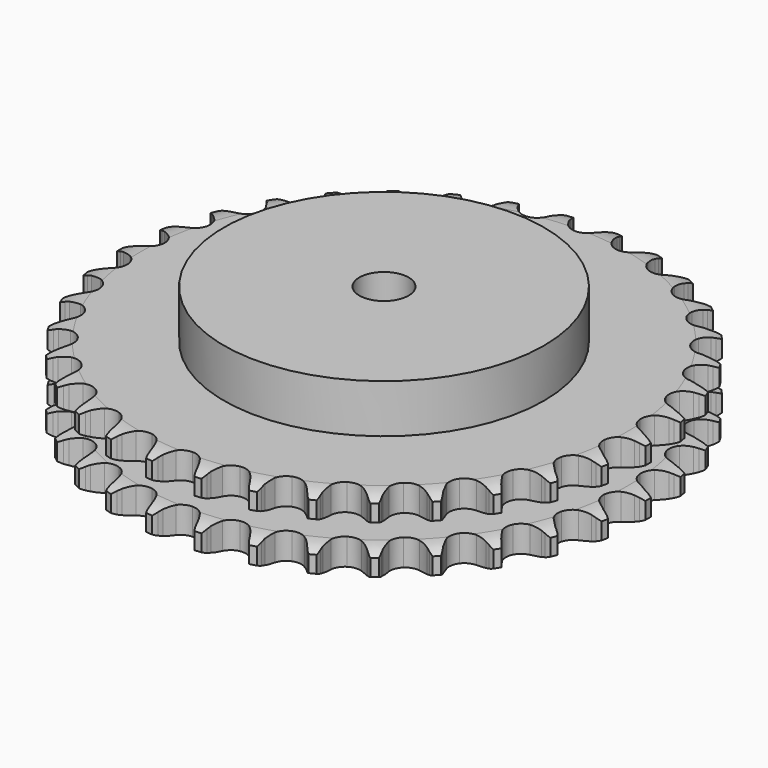
from build123d import *

# Parameters (mm, degrees)
PAD_DEPTH         = 30.3
SKETCH001_R       = 65
PAD001_DEPTH      = 50
SKETCH002_R       = 10
POCKET_DEPTH      = 0.001
POCKET_DEPTH_BACK = 50.001


with BuildPart() as part:
    # Sprocket → Pad (new body)
    with BuildSketch(Plane.XY):
        with BuildLine():
            ThreePointArc((-10.082744, 108.810139), (-8.639647, 107.094844), (-7.623169, 105.096959))
            Line((-7.623169, 105.096959), (-7.034333, 103.51462))
            ThreePointArc((-7.034333, 103.51462), (-6.1025, 101.4699), (-4.889335, 99.578493))
            ThreePointArc((-4.889335, 99.578493), (-2.734478, 97.77506), (0, 97.128213))
            ThreePointArc((0, 97.128213), (2.734478, 97.77506), (4.889335, 99.578493))
            ThreePointArc((4.889335, 99.578493), (6.1025, 101.4699), (7.034333, 103.51462))
            Line((7.034333, 103.51462), (7.623169, 105.096959))
            ThreePointArc((7.623169, 105.096959), (8.639647, 107.094844), (10.082744, 108.810139))
            ThreePointArc((10.082744, 108.810139), (11.186086, 106.858881), (11.818145, 104.708237))
            Line((11.818145, 104.708237), (12.106202, 103.044642))
            ThreePointArc((12.106202, 103.044642), (12.646452, 100.863514), (13.491415, 98.781393))
            ThreePointArc((13.491415, 98.781393), (15.278202, 96.612713), (17.847262, 95.47442))
            ThreePointArc((17.847262, 95.47442), (20.654038, 95.607795), (23.103585, 96.984567))
            Line((23.103585, 96.984567), (25.935321, 100.459532))
            ThreePointArc((25.935321, 100.459532), (26.350709, 101.194784), (26.804886, 101.90673))
            ThreePointArc((26.804886, 101.90673), (28.171166, 103.683819), (29.904877, 105.10474))
            ThreePointArc((29.904877, 105.10474), (30.630889, 102.983968), (30.857007, 100.753802))
            Line((30.857007, 100.753802), (30.834474, 99.065602))
            ThreePointArc((30.834474, 99.065602), (30.964744, 96.822341), (31.412732, 94.620411))
            ThreePointArc((31.412732, 94.620411), (32.770601, 92.160336), (35.086757, 90.569361))
            ThreePointArc((35.086757, 90.569361), (37.87025, 90.184721), (40.53107, 91.087948))
            Line((40.53107, 91.087948), (43.953114, 93.983414))
            ThreePointArc((43.953114, 93.983414), (44.496531, 94.62982), (45.073794, 95.246189))
            ThreePointArc((45.073794, 95.246189), (46.74335, 96.741967), (48.708635, 97.820126))
            ThreePointArc((48.708635, 97.820126), (49.032595, 95.602059), (48.84507, 93.368317))
            Line((48.84507, 93.368317), (48.512715, 91.713003))
            ThreePointArc((48.512715, 91.713003), (48.228569, 89.484), (48.264325, 87.237244))
            ThreePointArc((48.264325, 87.237244), (49.147037, 84.569549), (51.131415, 82.580071))
            ThreePointArc((51.131415, 82.580071), (53.796836, 81.690515), (56.578318, 82.089438))
            Line((56.578318, 82.089438), (60.474135, 84.306805))
            ThreePointArc((60.474135, 84.306805), (61.127077, 84.842352), (61.807768, 85.342154))
            ThreePointArc((61.807768, 85.342154), (63.723746, 86.505683), (65.853679, 87.204364))
            ThreePointArc((65.853679, 87.204364), (65.764554, 84.964537), (65.169773, 82.803286))
            Line((65.169773, 82.803286), (64.538914, 81.237226))
            ThreePointArc((64.538914, 81.237226), (63.850028, 79.098389), (63.472335, 76.883318))
            ThreePointArc((63.472335, 76.883318), (63.849829, 74.098847), (65.434854, 71.778615))
            ThreePointArc((65.434854, 71.778615), (67.891435, 70.414436), (70.698859, 70.295471))
            Line((70.698859, 70.295471), (74.935783, 71.759228))
            ThreePointArc((74.935783, 71.759228), (75.676013, 72.165679), (76.436953, 72.531894))
            ThreePointArc((76.436953, 72.531894), (78.534105, 73.323552), (80.756155, 73.618962))
            ThreePointArc((80.756155, 73.618962), (80.25698, 71.433649), (79.275198, 69.418488))
            Line((79.275198, 69.418488), (78.367317, 67.995014))
            ThreePointArc((78.367317, 67.995014), (77.29715, 66.019177), (76.51887, 63.911222))
            ThreePointArc((76.51887, 63.911222), (76.378292, 61.104798), (77.509987, 58.532825))
            ThreePointArc((77.509987, 58.532825), (79.674073, 56.740478), (82.411835, 56.107675))
            Line((82.411835, 56.107675), (86.845582, 56.767977))
            ThreePointArc((86.845582, 56.767977), (87.647894, 57.03149), (88.463169, 57.251647))
            ThreePointArc((88.463169, 57.251647), (90.67008, 57.644475), (92.908576, 57.526555))
            ThreePointArc((92.908576, 57.526555), (92.016351, 55.470174), (90.681001, 53.669727))
            Line((90.681001, 53.669727), (89.527016, 52.437313))
            ThreePointArc((89.527016, 52.437313), (88.112011, 50.691761), (86.959647, 48.762707))
            ThreePointArc((86.959647, 48.762707), (86.305783, 46.029899), (86.94561, 43.29377))
            ThreePointArc((86.94561, 43.29377), (88.743506, 41.134291), (91.318376, 40.009201))
            Line((91.318376, 40.009201), (95.79796, 39.84356))
            ThreePointArc((95.79796, 39.84356), (96.635031, 39.955162), (97.476878, 40.021764))
            ThreePointArc((97.476878, 40.021764), (99.718394, 40.002385), (101.897108, 39.47515))
            ThreePointArc((101.897108, 39.47515), (100.642215, 37.617729), (98.998771, 36.093308))
            Line((98.998771, 36.093308), (97.637979, 35.093922))
            ThreePointArc((97.637979, 35.093922), (95.926323, 33.638097), (94.439118, 31.953636))
            ThreePointArc((94.439118, 31.953636), (93.294235, 29.387506), (93.420405, 26.580397))
            ThreePointArc((93.420405, 26.580397), (94.790886, 24.127325), (97.115178, 22.54826))
            Line((97.115178, 22.54826), (101.488052, 21.562319))
            ThreePointArc((101.488052, 21.562319), (102.331378, 21.518209), (103.171129, 21.428988))
            ThreePointArc((103.171129, 21.428988), (105.370918, 20.998061), (107.415656, 20.079466))
            ThreePointArc((107.415656, 20.079466), (105.84083, 18.484257), (103.945256, 17.287774))
            Line((103.945256, 17.287774), (102.423998, 16.55545))
            ThreePointArc((102.423998, 16.55545), (100.47398, 15.438929), (98.702578, 14.056422))
            ThreePointArc((98.702578, 14.056422), (97.105663, 11.744357), (96.713881, 8.961861))
            ThreePointArc((96.713881, 8.961861), (97.610275, 6.298732), (99.60484, 4.319466))
            Line((99.60484, 4.319466), (103.722091, 2.546799))
            ThreePointArc((103.722091, 2.546799), (104.542952, 2.348479), (105.352011, 2.106474))
            ThreePointArc((105.352011, 2.106474), (107.435162, 1.278674), (109.276292, 0))
            ThreePointArc((109.276292, 0), (107.435162, -1.278674), (105.352011, -2.106474))
            Line((105.352011, -2.106474), (103.722091, -2.546799))
            ThreePointArc((103.722091, -2.546799), (101.600115, -3.285993), (99.60484, -4.319466))
            ThreePointArc((99.60484, -4.319466), (97.610275, -6.298732), (96.713881, -8.961861))
            ThreePointArc((96.713881, -8.961861), (97.105663, -11.744357), (98.702578, -14.056422))
            Line((98.702578, -14.056422), (102.423998, -16.55545))
            ThreePointArc((102.423998, -16.55545), (103.194442, -16.901225), (103.945256, -17.287774))
            ThreePointArc((103.945256, -17.287774), (105.84083, -18.484257), (107.415656, -20.079466))
            ThreePointArc((107.415656, -20.079466), (105.370918, -20.998061), (103.171129, -21.428988))
            Line((103.171129, -21.428988), (101.488052, -21.562319))
            ThreePointArc((101.488052, -21.562319), (99.26638, -21.899015), (97.115178, -22.54826))
            ThreePointArc((97.115178, -22.54826), (94.790886, -24.127325), (93.420405, -26.580397))
            ThreePointArc((93.420405, -26.580397), (93.294235, -29.387506), (94.439118, -31.953636))
            Line((94.439118, -31.953636), (97.637979, -35.093922))
            ThreePointArc((97.637979, -35.093922), (98.331768, -35.575378), (98.998771, -36.093308))
            ThreePointArc((98.998771, -36.093308), (100.642215, -37.617729), (101.897108, -39.47515))
            ThreePointArc((101.897108, -39.47515), (99.718394, -40.002385), (97.476878, -40.021764))
            Line((97.476878, -40.021764), (95.79796, -39.84356))
            ThreePointArc((95.79796, -39.84356), (93.552248, -39.766292), (91.318376, -40.009201))
            ThreePointArc((91.318376, -40.009201), (88.743506, -41.134291), (86.94561, -43.29377))
            ThreePointArc((86.94561, -43.29377), (86.305783, -46.029899), (86.959647, -48.762707))
            Line((86.959647, -48.762707), (89.527016, -52.437313))
            ThreePointArc((89.527016, -52.437313), (90.120524, -53.038055), (90.681001, -53.669727))
            ThreePointArc((90.681001, -53.669727), (92.016351, -55.470174), (92.908576, -57.526555))
            ThreePointArc((92.908576, -57.526555), (90.67008, -57.644475), (88.463169, -57.251647))
            Line((88.463169, -57.251647), (86.845582, -56.767977))
            ThreePointArc((86.845582, -56.767977), (84.652306, -56.279376), (82.411835, -56.107675))
            ThreePointArc((82.411835, -56.107675), (79.674073, -56.740478), (77.509987, -58.532825))
            ThreePointArc((77.509987, -58.532825), (76.378292, -61.104798), (76.51887, -63.911222))
            Line((76.51887, -63.911222), (78.367317, -67.995014))
            ThreePointArc((78.367317, -67.995014), (78.840334, -68.694584), (79.275198, -69.418488))
            ThreePointArc((79.275198, -69.418488), (80.25698, -71.433649), (80.756155, -73.618962))
            ThreePointArc((80.756155, -73.618962), (78.534105, -73.323552), (76.436953, -72.531894))
            Line((76.436953, -72.531894), (74.935783, -71.759228))
            ThreePointArc((74.935783, -71.759228), (72.869632, -70.875933), (70.698859, -70.295471))
            ThreePointArc((70.698859, -70.295471), (67.891435, -70.414436), (65.434854, -71.778615))
            ThreePointArc((65.434854, -71.778615), (63.849829, -74.098847), (63.472335, -76.883318))
            Line((63.472335, -76.883318), (64.538914, -81.237226))
            ThreePointArc((64.538914, -81.237226), (64.875331, -82.011802), (65.169773, -82.803286))
            ThreePointArc((65.169773, -82.803286), (65.764554, -84.964537), (65.853679, -87.204364))
            ThreePointArc((65.853679, -87.204364), (63.723746, -86.505683), (61.807768, -85.342154))
            Line((61.807768, -85.342154), (60.474135, -84.306805))
            ThreePointArc((60.474135, -84.306805), (58.605469, -83.058895), (56.578318, -82.089438))
            ThreePointArc((56.578318, -82.089438), (53.796836, -81.690515), (51.131415, -82.580071))
            ThreePointArc((51.131415, -82.580071), (49.147037, -84.569549), (48.264325, -87.237244))
            Line((48.264325, -87.237244), (48.512715, -91.713003))
            ThreePointArc((48.512715, -91.713003), (48.701076, -92.536206), (48.84507, -93.368317))
            ThreePointArc((48.84507, -93.368317), (49.032595, -95.602059), (48.708635, -97.820126))
            ThreePointArc((48.708635, -97.820126), (46.74335, -96.741967), (45.073794, -95.246189))
            Line((45.073794, -95.246189), (43.953114, -93.983414))
            ThreePointArc((43.953114, -93.983414), (42.345568, -92.413387), (40.53107, -91.087948))
            ThreePointArc((40.53107, -91.087948), (37.87025, -90.184721), (35.086757, -90.569361))
            ThreePointArc((35.086757, -90.569361), (32.770601, -92.160336), (31.412732, -94.620411))
            Line((31.412732, -94.620411), (30.834474, -99.065602))
            ThreePointArc((30.834474, -99.065602), (30.868365, -99.9094), (30.857007, -100.753802))
            ThreePointArc((30.857007, -100.753802), (30.630889, -102.983968), (29.904877, -105.10474))
            ThreePointArc((29.904877, -105.10474), (28.171166, -103.683819), (26.804886, -101.90673))
            Line((26.804886, -101.90673), (25.935321, -100.459532))
            ThreePointArc((25.935321, -100.459532), (24.643639, -98.620851), (23.103585, -96.984567))
            ThreePointArc((23.103585, -96.984567), (20.654038, -95.607795), (17.847262, -95.47442))
            ThreePointArc((17.847262, -95.47442), (15.278202, -96.612713), (13.491415, -98.781393))
            Line((13.491415, -98.781393), (12.106202, -103.044642))
            ThreePointArc((12.106202, -103.044642), (11.984468, -103.8803), (11.818145, -104.708237))
            ThreePointArc((11.818145, -104.708237), (11.186086, -106.858881), (10.082744, -108.810139))
            ThreePointArc((10.082744, -108.810139), (8.639647, -107.094844), (7.623169, -105.096959))
            Line((7.623169, -105.096959), (7.034333, -103.51462))
            ThreePointArc((7.034333, -103.51462), (6.1025, -101.4699), (4.889335, -99.578493))
            ThreePointArc((4.889335, -99.578493), (2.734478, -97.77506), (0, -97.128213))
            ThreePointArc((0, -97.128213), (-2.734478, -97.77506), (-4.889335, -99.578493))
            Line((-4.889335, -99.578493), (-7.034333, -103.51462))
            ThreePointArc((-7.034333, -103.51462), (-7.307545, -104.313681), (-7.623169, -105.096959))
            ThreePointArc((-7.623169, -105.096959), (-8.639647, -107.094844), (-10.082744, -108.810139))
            ThreePointArc((-10.082744, -108.810139), (-11.186086, -106.858881), (-11.818145, -104.708237))
            Line((-11.818145, -104.708237), (-12.106202, -103.044642))
            ThreePointArc((-12.106202, -103.044642), (-12.646452, -100.863514), (-13.491415, -98.781393))
            ThreePointArc((-13.491415, -98.781393), (-15.278202, -96.612713), (-17.847262, -95.47442))
            ThreePointArc((-17.847262, -95.47442), (-20.654038, -95.607795), (-23.103585, -96.984567))
            Line((-23.103585, -96.984567), (-25.935321, -100.459532))
            ThreePointArc((-25.935321, -100.459532), (-26.350709, -101.194784), (-26.804886, -101.90673))
            ThreePointArc((-26.804886, -101.90673), (-28.171166, -103.683819), (-29.904877, -105.10474))
            ThreePointArc((-29.904877, -105.10474), (-30.630889, -102.983968), (-30.857007, -100.753802))
            Line((-30.857007, -100.753802), (-30.834474, -99.065602))
            ThreePointArc((-30.834474, -99.065602), (-30.964744, -96.822341), (-31.412732, -94.620411))
            ThreePointArc((-31.412732, -94.620411), (-32.770601, -92.160336), (-35.086757, -90.569361))
            ThreePointArc((-35.086757, -90.569361), (-37.87025, -90.184721), (-40.53107, -91.087948))
            Line((-40.53107, -91.087948), (-43.953114, -93.983414))
            ThreePointArc((-43.953114, -93.983414), (-44.496531, -94.62982), (-45.073794, -95.246189))
            ThreePointArc((-45.073794, -95.246189), (-46.74335, -96.741967), (-48.708635, -97.820126))
            ThreePointArc((-48.708635, -97.820126), (-49.032595, -95.602059), (-48.84507, -93.368317))
            Line((-48.84507, -93.368317), (-48.512715, -91.713003))
            ThreePointArc((-48.512715, -91.713003), (-48.228569, -89.484), (-48.264325, -87.237244))
            ThreePointArc((-48.264325, -87.237244), (-49.147037, -84.569549), (-51.131415, -82.580071))
            ThreePointArc((-51.131415, -82.580071), (-53.796836, -81.690515), (-56.578318, -82.089438))
            Line((-56.578318, -82.089438), (-60.474135, -84.306805))
            ThreePointArc((-60.474135, -84.306805), (-61.127077, -84.842352), (-61.807768, -85.342154))
            ThreePointArc((-61.807768, -85.342154), (-63.723746, -86.505683), (-65.853679, -87.204364))
            ThreePointArc((-65.853679, -87.204364), (-65.764554, -84.964537), (-65.169773, -82.803286))
            Line((-65.169773, -82.803286), (-64.538914, -81.237226))
            ThreePointArc((-64.538914, -81.237226), (-63.850028, -79.098389), (-63.472335, -76.883318))
            ThreePointArc((-63.472335, -76.883318), (-63.849829, -74.098847), (-65.434854, -71.778615))
            ThreePointArc((-65.434854, -71.778615), (-67.891435, -70.414436), (-70.698859, -70.295471))
            Line((-70.698859, -70.295471), (-74.935783, -71.759228))
            ThreePointArc((-74.935783, -71.759228), (-75.676013, -72.165679), (-76.436953, -72.531894))
            ThreePointArc((-76.436953, -72.531894), (-78.534105, -73.323552), (-80.756155, -73.618962))
            ThreePointArc((-80.756155, -73.618962), (-80.25698, -71.433649), (-79.275198, -69.418488))
            Line((-79.275198, -69.418488), (-78.367317, -67.995014))
            ThreePointArc((-78.367317, -67.995014), (-77.29715, -66.019177), (-76.51887, -63.911222))
            ThreePointArc((-76.51887, -63.911222), (-76.378292, -61.104798), (-77.509987, -58.532825))
            ThreePointArc((-77.509987, -58.532825), (-79.674073, -56.740478), (-82.411835, -56.107675))
            Line((-82.411835, -56.107675), (-86.845582, -56.767977))
            ThreePointArc((-86.845582, -56.767977), (-87.647894, -57.03149), (-88.463169, -57.251647))
            ThreePointArc((-88.463169, -57.251647), (-90.67008, -57.644475), (-92.908576, -57.526555))
            ThreePointArc((-92.908576, -57.526555), (-92.016351, -55.470174), (-90.681001, -53.669727))
            Line((-90.681001, -53.669727), (-89.527016, -52.437313))
            ThreePointArc((-89.527016, -52.437313), (-88.112011, -50.691761), (-86.959647, -48.762707))
            ThreePointArc((-86.959647, -48.762707), (-86.305783, -46.029899), (-86.94561, -43.29377))
            ThreePointArc((-86.94561, -43.29377), (-88.743506, -41.134291), (-91.318376, -40.009201))
            Line((-91.318376, -40.009201), (-95.79796, -39.84356))
            ThreePointArc((-95.79796, -39.84356), (-96.635031, -39.955162), (-97.476878, -40.021764))
            ThreePointArc((-97.476878, -40.021764), (-99.718394, -40.002385), (-101.897108, -39.47515))
            ThreePointArc((-101.897108, -39.47515), (-100.642215, -37.617729), (-98.998771, -36.093308))
            Line((-98.998771, -36.093308), (-97.637979, -35.093922))
            ThreePointArc((-97.637979, -35.093922), (-95.926323, -33.638097), (-94.439118, -31.953636))
            ThreePointArc((-94.439118, -31.953636), (-93.294235, -29.387506), (-93.420405, -26.580397))
            ThreePointArc((-93.420405, -26.580397), (-94.790886, -24.127325), (-97.115178, -22.54826))
            Line((-97.115178, -22.54826), (-101.488052, -21.562319))
            ThreePointArc((-101.488052, -21.562319), (-102.331378, -21.518209), (-103.171129, -21.428988))
            ThreePointArc((-103.171129, -21.428988), (-105.370918, -20.998061), (-107.415656, -20.079466))
            ThreePointArc((-107.415656, -20.079466), (-105.84083, -18.484257), (-103.945256, -17.287774))
            Line((-103.945256, -17.287774), (-102.423998, -16.55545))
            ThreePointArc((-102.423998, -16.55545), (-100.47398, -15.438929), (-98.702578, -14.056422))
            ThreePointArc((-98.702578, -14.056422), (-97.105663, -11.744357), (-96.713881, -8.961861))
            ThreePointArc((-96.713881, -8.961861), (-97.610275, -6.298732), (-99.60484, -4.319466))
            Line((-99.60484, -4.319466), (-103.722091, -2.546799))
            ThreePointArc((-103.722091, -2.546799), (-104.542952, -2.348479), (-105.352011, -2.106474))
            ThreePointArc((-105.352011, -2.106474), (-107.435162, -1.278674), (-109.276292, 0))
            ThreePointArc((-109.276292, 0), (-107.435162, 1.278674), (-105.352011, 2.106474))
            Line((-105.352011, 2.106474), (-103.722091, 2.546799))
            ThreePointArc((-103.722091, 2.546799), (-101.600115, 3.285993), (-99.60484, 4.319466))
            ThreePointArc((-99.60484, 4.319466), (-97.610275, 6.298732), (-96.713881, 8.961861))
            ThreePointArc((-96.713881, 8.961861), (-97.105663, 11.744357), (-98.702578, 14.056422))
            Line((-98.702578, 14.056422), (-102.423998, 16.55545))
            ThreePointArc((-102.423998, 16.55545), (-103.194442, 16.901225), (-103.945256, 17.287774))
            ThreePointArc((-103.945256, 17.287774), (-105.84083, 18.484257), (-107.415656, 20.079466))
            ThreePointArc((-107.415656, 20.079466), (-105.370918, 20.998061), (-103.171129, 21.428988))
            Line((-103.171129, 21.428988), (-101.488052, 21.562319))
            ThreePointArc((-101.488052, 21.562319), (-99.26638, 21.899015), (-97.115178, 22.54826))
            ThreePointArc((-97.115178, 22.54826), (-94.790886, 24.127325), (-93.420405, 26.580397))
            ThreePointArc((-93.420405, 26.580397), (-93.294235, 29.387506), (-94.439118, 31.953636))
            Line((-94.439118, 31.953636), (-97.637979, 35.093922))
            ThreePointArc((-97.637979, 35.093922), (-98.331768, 35.575378), (-98.998771, 36.093308))
            ThreePointArc((-98.998771, 36.093308), (-100.642215, 37.617729), (-101.897108, 39.47515))
            ThreePointArc((-101.897108, 39.47515), (-99.718394, 40.002385), (-97.476878, 40.021764))
            Line((-97.476878, 40.021764), (-95.79796, 39.84356))
            ThreePointArc((-95.79796, 39.84356), (-93.552248, 39.766292), (-91.318376, 40.009201))
            ThreePointArc((-91.318376, 40.009201), (-88.743506, 41.134291), (-86.94561, 43.29377))
            ThreePointArc((-86.94561, 43.29377), (-86.305783, 46.029899), (-86.959647, 48.762707))
            Line((-86.959647, 48.762707), (-89.527016, 52.437313))
            ThreePointArc((-89.527016, 52.437313), (-90.120524, 53.038055), (-90.681001, 53.669727))
            ThreePointArc((-90.681001, 53.669727), (-92.016351, 55.470174), (-92.908576, 57.526555))
            ThreePointArc((-92.908576, 57.526555), (-90.67008, 57.644475), (-88.463169, 57.251647))
            Line((-88.463169, 57.251647), (-86.845582, 56.767977))
            ThreePointArc((-86.845582, 56.767977), (-84.652306, 56.279376), (-82.411835, 56.107675))
            ThreePointArc((-82.411835, 56.107675), (-79.674073, 56.740478), (-77.509987, 58.532825))
            ThreePointArc((-77.509987, 58.532825), (-76.378292, 61.104798), (-76.51887, 63.911222))
            Line((-76.51887, 63.911222), (-78.367317, 67.995014))
            ThreePointArc((-78.367317, 67.995014), (-78.840334, 68.694584), (-79.275198, 69.418488))
            ThreePointArc((-79.275198, 69.418488), (-80.25698, 71.433649), (-80.756155, 73.618962))
            ThreePointArc((-80.756155, 73.618962), (-78.534105, 73.323552), (-76.436953, 72.531894))
            Line((-76.436953, 72.531894), (-74.935783, 71.759228))
            ThreePointArc((-74.935783, 71.759228), (-72.869632, 70.875933), (-70.698859, 70.295471))
            ThreePointArc((-70.698859, 70.295471), (-67.891435, 70.414436), (-65.434854, 71.778615))
            ThreePointArc((-65.434854, 71.778615), (-63.849829, 74.098847), (-63.472335, 76.883318))
            Line((-63.472335, 76.883318), (-64.538914, 81.237226))
            ThreePointArc((-64.538914, 81.237226), (-64.875331, 82.011802), (-65.169773, 82.803286))
            ThreePointArc((-65.169773, 82.803286), (-65.764554, 84.964537), (-65.853679, 87.204364))
            ThreePointArc((-65.853679, 87.204364), (-63.723746, 86.505683), (-61.807768, 85.342154))
            Line((-61.807768, 85.342154), (-60.474135, 84.306805))
            ThreePointArc((-60.474135, 84.306805), (-58.605469, 83.058895), (-56.578318, 82.089438))
            ThreePointArc((-56.578318, 82.089438), (-53.796836, 81.690515), (-51.131415, 82.580071))
            ThreePointArc((-51.131415, 82.580071), (-49.147037, 84.569549), (-48.264325, 87.237244))
            Line((-48.264325, 87.237244), (-48.512715, 91.713003))
            ThreePointArc((-48.512715, 91.713003), (-48.701076, 92.536206), (-48.84507, 93.368317))
            ThreePointArc((-48.84507, 93.368317), (-49.032595, 95.602059), (-48.708635, 97.820126))
            ThreePointArc((-48.708635, 97.820126), (-46.74335, 96.741967), (-45.073794, 95.246189))
            Line((-45.073794, 95.246189), (-43.953114, 93.983414))
            ThreePointArc((-43.953114, 93.983414), (-42.345568, 92.413387), (-40.53107, 91.087948))
            ThreePointArc((-40.53107, 91.087948), (-37.87025, 90.184721), (-35.086757, 90.569361))
            ThreePointArc((-35.086757, 90.569361), (-32.770601, 92.160336), (-31.412732, 94.620411))
            Line((-31.412732, 94.620411), (-30.834474, 99.065602))
            ThreePointArc((-30.834474, 99.065602), (-30.868365, 99.9094), (-30.857007, 100.753802))
            ThreePointArc((-30.857007, 100.753802), (-30.630889, 102.983968), (-29.904877, 105.10474))
            ThreePointArc((-29.904877, 105.10474), (-28.171166, 103.683819), (-26.804886, 101.90673))
            Line((-26.804886, 101.90673), (-25.935321, 100.459532))
            ThreePointArc((-25.935321, 100.459532), (-24.643639, 98.620851), (-23.103585, 96.984567))
            ThreePointArc((-23.103585, 96.984567), (-20.654038, 95.607795), (-17.847262, 95.47442))
            ThreePointArc((-17.847262, 95.47442), (-15.278202, 96.612713), (-13.491415, 98.781393))
            Line((-13.491415, 98.781393), (-12.106202, 103.044642))
            ThreePointArc((-12.106202, 103.044642), (-11.984468, 103.8803), (-11.818145, 104.708237))
            ThreePointArc((-11.818145, 104.708237), (-11.186086, 106.858881), (-10.082744, 108.810139))
        make_face()
    extrude(amount=PAD_DEPTH)

    # Sketch → Groove (revolve, cut)
    with BuildSketch(Plane.XZ):
        with BuildLine():
            ThreePointArc((98.814719, 0), (103.173618, 0.506758), (107.3, 2))
            Line((107.3, 2), (107.3, 8.8))
            ThreePointArc((107.3, 8.8), (103.173618, 10.293242), (98.814719, 10.8))
            Line((65, 10.8), (98.814719, 10.8))
            Line((65, 19.5), (65, 10.8))
            Line((98.814719, 19.5), (65, 19.5))
            ThreePointArc((98.814719, 19.5), (103.173618, 20.006758), (107.3, 21.5))
            Line((107.3, 21.5), (107.3, 28.3))
            ThreePointArc((107.3, 28.3), (103.173618, 29.793242), (98.814719, 30.3))
            Line((98.814719, 30.3), (117.3, 30.3))
            Line((117.3, 30.3), (117.3, 0))
            Line((98.814719, 0), (117.3, 0))
        make_face()
    revolve(axis=Axis((0, 0, 0), (0, 0, 1)), mode=Mode.SUBTRACT)

    # Sketch001 → Pad001 (join)
    with BuildSketch(Plane.XY):
        Circle(SKETCH001_R)
    extrude(amount=PAD001_DEPTH)

    # Sketch002 → Pocket (cut, two sides)
    with BuildSketch(Plane.XY) as pocket_sk:
        Circle(SKETCH002_R)
    extrude(amount=-POCKET_DEPTH, mode=Mode.SUBTRACT)
    extrude(pocket_sk.sketch, amount=POCKET_DEPTH_BACK, mode=Mode.SUBTRACT)


solid = part.part
